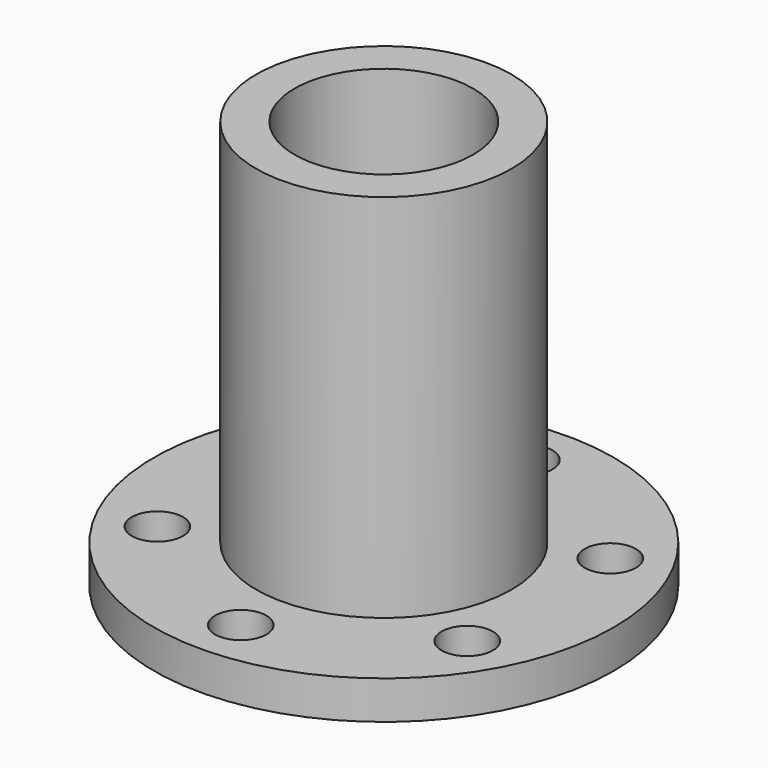
from build123d import *

# Parameters (mm, degrees)
F2_R     = 3.1877
F3_DEPTH = 25.4


with BuildPart() as f1:
    # F0 (on Front) → F1 (revolve)
    with BuildSketch(Plane.XZ):
        Polygon((11.1125, 50.8), (11.1125, 0), (28.575, 0), (28.575, 4.7625), (15.875, 4.7625), (15.875, 50.8), align=None)
    revolve(axis=Axis((0, 0, 24.967514), (0, 0, 1)))

    # F2 (on face) → F3 (cut)
    with BuildSketch(Plane.XY.offset(4.7625)):
        with Locations((0, 22.225)):
            Circle(F2_R)
        with Locations((19.247415, 11.1125)):
            Circle(F2_R)
        with Locations((19.247415, -11.1125)):
            Circle(F2_R)
        with Locations((0, -22.225)):
            Circle(F2_R)
        with Locations((-19.247415, -11.1125)):
            Circle(F2_R)
        with Locations((-19.247415, 11.1125)):
            Circle(F2_R)
    extrude(amount=-F3_DEPTH, mode=Mode.SUBTRACT)


solid = f1.part
